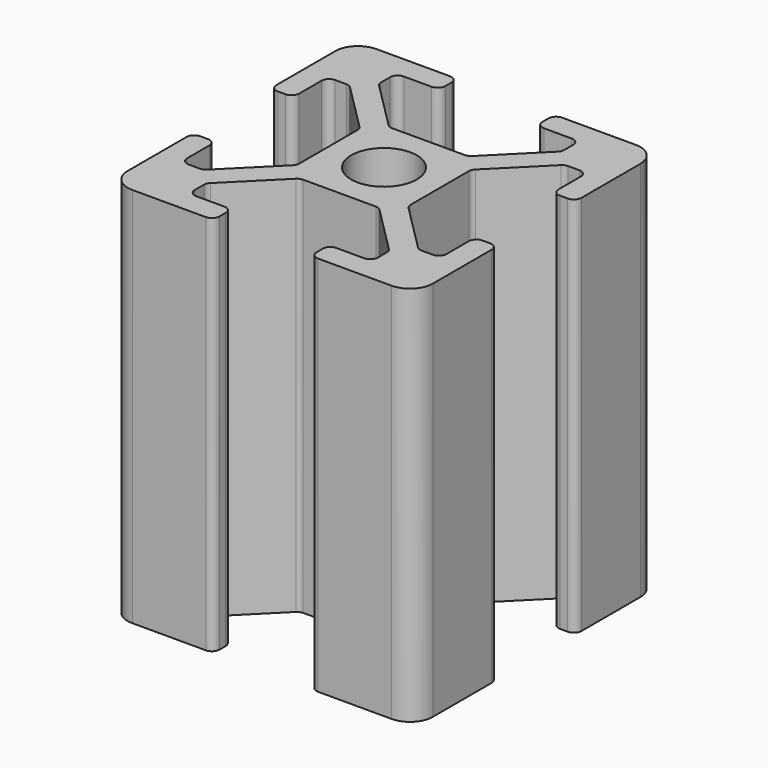
from build123d import *

# Parameters (mm, degrees)
F0_W     = 20
F0_H     = 20
F0_R     = 2.15
F2_DEPTH = 25
F3_DEPTH = 25.001
F4_R     = 1.5
F5_R     = 0.5


with BuildPart() as f2:
    # F0 (on Top) → F2 (new body)
    with BuildSketch(Plane.XY):
        Rectangle(F0_W, F0_H)
        Circle(F0_R, mode=Mode.SUBTRACT)
    extrude(amount=F2_DEPTH)

    # F1 (on face) → F3 (cut, through all)
    with BuildSketch(Plane.XY):
        Polygon((-8.5, 3.18), (-10, 3.18), (-10, -3.18), (-8.5, -3.18), (-8.5, -6), (-7.06066, -6), (-3.65, -2.58934), (-3.65, 2.58934), (-7.06066, 6), (-8.5, 6), align=None)
        Polygon((-3.18, -8.5), (-3.18, -10), (3.18, -10), (3.18, -8.5), (6, -8.5), (6, -7.06066), (2.58934, -3.65), (-2.58934, -3.65), (-6, -7.06066), (-6, -8.5), align=None)
        Polygon((10, -3.18), (10, 3.18), (8.5, 3.18), (8.5, 6), (7.06066, 6), (3.65, 2.58934), (3.65, -2.58934), (7.06066, -6), (8.5, -6), (8.5, -3.18), align=None)
        Polygon((3.18, 10), (-3.18, 10), (-3.18, 8.5), (-6, 8.5), (-6, 7.06066), (-2.58934, 3.65), (2.58934, 3.65), (6, 7.06066), (6, 8.5), (3.18, 8.5), align=None)
    extrude(amount=F3_DEPTH, mode=Mode.SUBTRACT)

    # F4
    f4_edges = [f2.edges().sort_by_distance(p)[0] for p in [
        (10, -10, 12.5),
        (-10, -10, 12.5),
        (10, 10, 12.5),
        (-10, 10, 12.5),
    ]]
    fillet(f4_edges, radius=F4_R)

    # F5
    f5_edges = [f2.edges().sort_by_distance(p)[0] for p in [
        (-3.18, -10, 12.5),
        (-10, 3.18, 12.5),
        (-3.18, 10, 12.5),
        (3.18, -10, 12.5),
        (10, 3.18, 12.5),
        (10, -3.18, 12.5),
        (-10, -3.18, 12.5),
        (3.18, 10, 12.5),
        (-6, -8.5, 12.5),
        (-3.18, -8.5, 12.5),
        (3.18, -8.5, 12.5),
        (-8.5, 3.18, 12.5),
        (-8.5, -3.18, 12.5),
        (8.5, -3.18, 12.5),
        (8.5, 3.18, 12.5),
        (3.18, 8.5, 12.5),
        (6, 8.5, 12.5),
        (8.5, 6, 12.5),
        (7.06066, 6, 12.5),
        (6, 7.06066, 12.5),
        (-2.58934, -3.65, 12.5),
        (2.58934, -3.65, 12.5),
        (3.65, 2.58934, 12.5),
        (3.65, -2.58934, 12.5),
        (-3.65, -2.58934, 12.5),
        (-3.65, 2.58934, 12.5),
        (2.58934, 3.65, 12.5),
        (-2.58934, 3.65, 12.5),
        (-6, 8.5, 12.5),
        (-6, 7.06066, 12.5),
        (-3.18, 8.5, 12.5),
        (8.5, -6, 12.5),
        (7.06066, -6, 12.5),
        (-8.5, -6, 12.5),
        (-7.06066, -6, 12.5),
        (-6, -7.06066, 12.5),
        (6, -7.06066, 12.5),
        (6, -8.5, 12.5),
        (-8.5, 6, 12.5),
        (-7.06066, 6, 12.5),
    ]]
    fillet(f5_edges, radius=F5_R)


solid = f2.part
